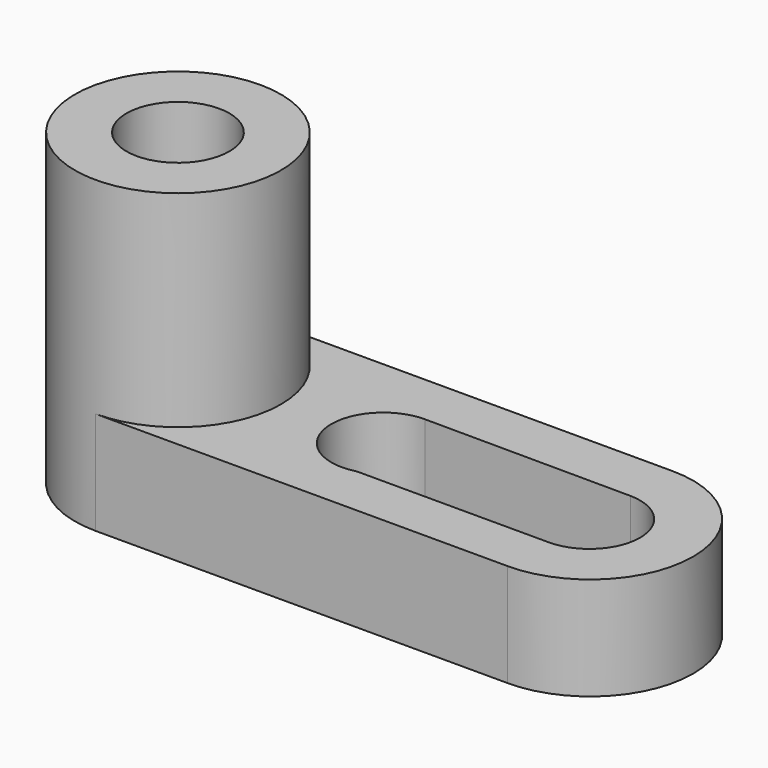
from build123d import *

# Parameters (mm, degrees)
F0_R     = 6.35
F1_DEPTH = 38.1
F3_DEPTH = 25.4


with BuildPart() as f1:
    # F0 (on Top) → F1 (new body)
    with BuildSketch(Plane.XY):
        with BuildLine():
            ThreePointArc((0, 25.4), (-12.7, 12.7), (0, 0))
            Line((0, 0), (50.8, 0))
            ThreePointArc((50.8, 0), (63.535209, 12.682377), (50.835197, 25.4))
            Line((50.835197, 25.4), (0, 25.4))
        make_face()
        with BuildLine():
            Line((25.483008, 18.937421), (50.88276, 18.825148))
            ThreePointArc((50.88276, 18.825148), (57.072841, 12.563859), (50.835197, 6.349951))
            Line((50.835197, 6.349951), (27.129976, 6.349951))
            ThreePointArc((27.129976, 6.349951), (19.103581, 11.701243), (25.483008, 18.937421))
        make_face(mode=Mode.SUBTRACT)
        with Locations((0, 12.7)):
            Circle(F0_R, mode=Mode.SUBTRACT)
    extrude(amount=F1_DEPTH)

    # F2 (on face) → F3 (cut)
    with BuildSketch(Plane.XY.offset(38.1)):
        with BuildLine():
            ThreePointArc((0, 25.4), (12.7, 12.7), (0, 0))
            Line((0, 0), (50.8, 0))
            ThreePointArc((50.8, 0), (63.535209, 12.682377), (50.835197, 25.4))
            Line((50.835197, 25.4), (0, 25.4))
        make_face()
        with BuildLine():
            Line((50.835197, 6.349951), (27.129976, 6.349951))
            ThreePointArc((27.129976, 6.349951), (19.103581, 11.701243), (25.483008, 18.937421))
            Line((25.483008, 18.937421), (50.88276, 18.825148))
            ThreePointArc((50.88276, 18.825148), (57.072841, 12.563859), (50.835197, 6.349951))
        make_face(mode=Mode.SUBTRACT)
    extrude(amount=-F3_DEPTH, mode=Mode.SUBTRACT)


solid = f1.part
